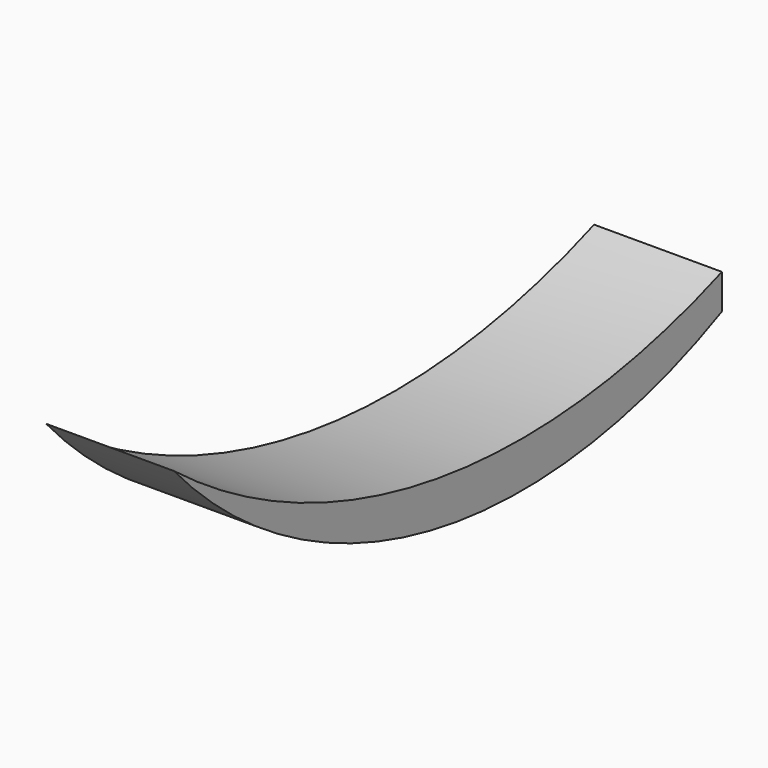
from build123d import *

# Parameters (mm, degrees)
F1_DEPTH = 10
F3_DEPTH = 35
F5_DEPTH = 45.001


with BuildPart() as f1:
    # F0 (on Right) → F1 (new body)
    with BuildSketch(Plane.YZ):
        with BuildLine():
            ThreePointArc((0, 0), (-34.0398401022, -11.614694955), (-68.0796802044, 0))
            ThreePointArc((-68.0796802044, 0), (-43.0772294723, -14.2909034111), (-14.4906720078, -10.8036128804))
            ThreePointArc((-14.4906720078, -10.8036128804), (-6.7062533875, -6.1248672779), (0, 0))
        make_face()
        with BuildLine():
            ThreePointArc((0, 0), (-6.7062533875, -6.1248672779), (-14.4906720078, -10.8036128804))
            Line((-14.4906720078, -10.8036128804), (0, -10.8036128804))
            Line((0, -10.8036128804), (0, 0))
        make_face()
    extrude(amount=F1_DEPTH)

    # F2 (on face) → F3 (join)
    with BuildSketch(Plane(origin=(0, 0, 0), x_dir=(0, -1, 0), z_dir=(-1, 0, 0))):
        with BuildLine():
            Line((0, -10.8036128804), (14.4906720078, -10.8036128804))
            Line((14.4906720078, -10.8036128804), (14.4906720078, -8.0706065552))
            ThreePointArc((14.4906720078, -8.0706065552), (6.9431775325, -4.5778249918), (0, 0))
            Line((0, 0), (0, -10.8036128804))
        make_face()
    extrude(amount=F3_DEPTH)

    # F4 (on face) → F5 (cut, through all)
    with BuildSketch(Plane.YZ.offset(10)):
        with BuildLine():
            Line((-14.4906720078, -8.0706065552), (-14.4906720078, -10.8036128804))
            Line((-14.4906720078, -10.8036128804), (0, -10.8036128804))
            Line((0, -10.8036128804), (0, 0))
            ThreePointArc((0, 0), (-6.9431775325, -4.5778249918), (-14.4906720078, -8.0706065552))
        make_face()
    extrude(amount=-F5_DEPTH, mode=Mode.SUBTRACT)


solid = f1.part
